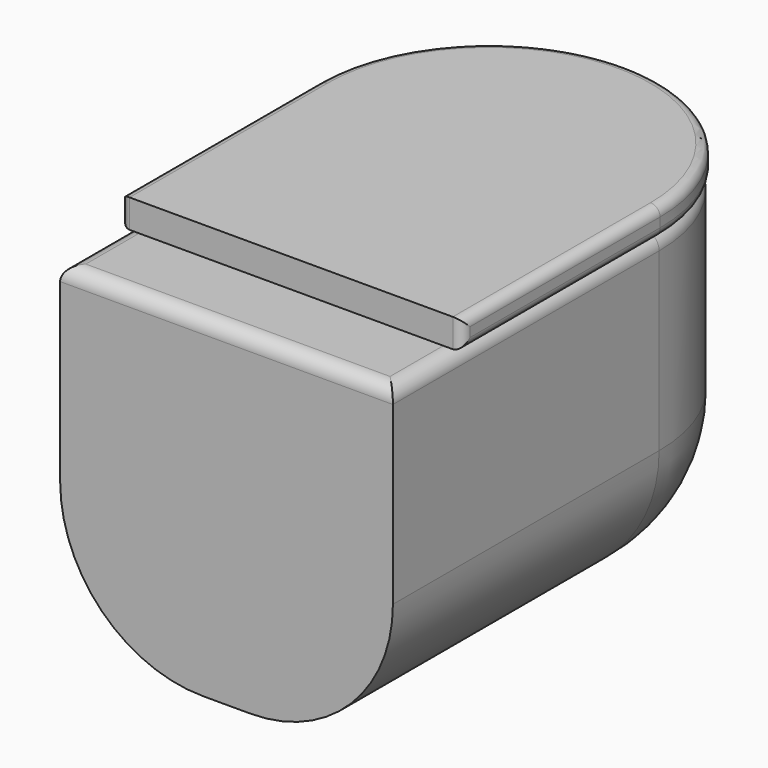
from build123d import *

# Parameters (mm, degrees)
PAD014_DEPTH = 350
FILLET013_R  = 150
FILLET014_R  = 15
PAD015_DEPTH = 30
FILLET015_R  = 10


with BuildPart() as part:
    # Sketch194 → Pad014 (new body)
    with BuildSketch(Plane.XY):
        with BuildLine():
            Line((0, 350), (0, 0))
            Line((0, 0), (350, 0))
            Line((350, 0), (350, 350))
            ThreePointArc((350, 350), (175, 525), (0, 350))
        make_face()
    extrude(amount=PAD014_DEPTH)

    # Fillet013
    fillet013_edges = [part.edges().sort_by_distance(p)[0] for p in [
        (350, 175, 0),
        (175, 525, 0),
        (0, 175, 0),
    ]]
    fillet(fillet013_edges, radius=FILLET013_R)

    # Fillet014
    fillet014_edges = [part.edges().sort_by_distance(p)[0] for p in [
        (0, 175, 350),
        (175, 0, 350),
        (350, 175, 350),
        (175, 525, 350),
    ]]
    fillet(fillet014_edges, radius=FILLET014_R)

    # Sketch195 (on Face4 of Fillet013) → Pad015 (join)
    with BuildSketch(Plane.XY.offset(350)):
        with BuildLine():
            Line((-5, 85), (355, 85))
            Line((355, 85), (355, 345))
            ThreePointArc((355, 345), (175, 525), (-5, 345))
            Line((-5, 85), (-5, 345))
        make_face()
    extrude(amount=PAD015_DEPTH)

    # Fillet015
    fillet015_edges = [part.edges().sort_by_distance(p)[0] for p in [
        (355, 345, 365),
        (-5, 345, 365),
        (175, 525, 350),
        (175, 525, 380),
        (-5, 85, 365),
        (-5, 215, 350),
        (-5, 215, 380),
        (355, 85, 365),
        (355, 215, 350),
        (355, 215, 380),
    ]]
    fillet(fillet015_edges, radius=FILLET015_R)


with BuildPart() as part_1:
    # Body010 placement: moved
    add(part.part.moved(Location((1156, 1615, 0))))


solid = part_1.part
